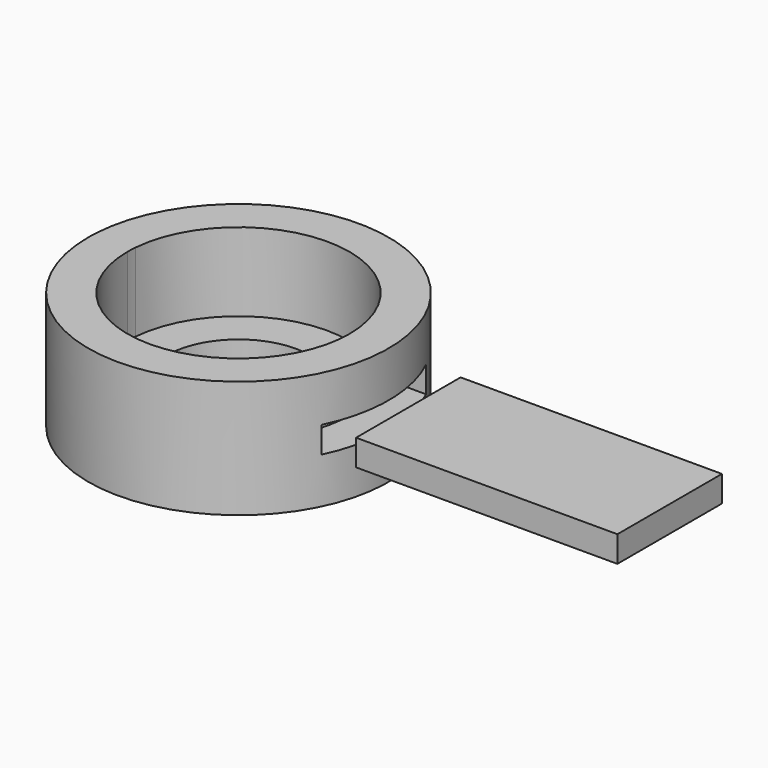
from build123d import *

# Parameters (mm, degrees)
F1_DEPTH = 3
F2_DEPTH = 9
F4_W     = 10
F4_H     = 2
F5_DEPTH = 12.20318
F6_DEPTH = 20


with BuildPart() as f1:
    # F0 (on Top) → F1 (new body)
    with BuildSketch(Plane.XY):
        with BuildLine():
            Line((-5.4486236794, 0.75), (-8.4668471109, 0.75))
            ThreePointArc((-8.4668471109, 0.75), (-8.4917077329, 0.3753661926), (-8.5, 0))
            Line((-8.5, 0), (-5.5, 0))
            ThreePointArc((-5.5, 0), (-5.4871408874, 0.3758788124), (-5.4486236794, 0.75))
        make_face()
        with BuildLine():
            ThreePointArc((-8.5, 0), (0, -8.5), (8.5, 0))
            ThreePointArc((8.5, 0), (0.3753661926, 8.4917077329), (-8.4668471109, 0.75))
            Line((-8.4668471109, 0.75), (-5.4486236794, 0.75))
            ThreePointArc((-5.4486236794, 0.75), (0.3758788124, 5.4871408874), (5.5, 0))
            ThreePointArc((5.5, 0), (0, -5.5), (-5.5, 0))
            Line((-5.5, 0), (-8.5, 0))
        make_face()
        with BuildLine():
            ThreePointArc((-8.5, 0), (-8.4917077329, 0.3753661926), (-8.4668471109, 0.75))
            Line((-8.4668471109, 0.75), (-11.4755174175, 0.75))
            ThreePointArc((-11.4755174175, 0.75), (-11.4938777247, 0.3751997458), (-11.5, 0))
            Line((-11.5, 0), (-8.5, 0))
        make_face()
        with BuildLine():
            ThreePointArc((-8.4668471109, 0.75), (0.3753661926, 8.4917077329), (8.5, 0))
            ThreePointArc((8.5, 0), (0, -8.5), (-8.5, 0))
            Line((-8.5, 0), (-11.5, 0))
            ThreePointArc((-11.5, 0), (0, -11.5), (11.5, 0))
            ThreePointArc((11.5, 0), (0.3751997458, 11.4938777247), (-11.4755174175, 0.75))
            Line((-11.4755174175, 0.75), (-8.4668471109, 0.75))
        make_face()
    extrude(amount=F1_DEPTH)

    # F0 (on Top) → F2 (join)
    with BuildSketch(Plane.XY):
        with BuildLine():
            ThreePointArc((-8.5, 0), (-8.4917077329, 0.3753661926), (-8.4668471109, 0.75))
            Line((-8.4668471109, 0.75), (-11.4755174175, 0.75))
            ThreePointArc((-11.4755174175, 0.75), (-11.4938777247, 0.3751997458), (-11.5, 0))
            Line((-11.5, 0), (-8.5, 0))
        make_face()
        with BuildLine():
            ThreePointArc((-8.4668471109, 0.75), (0.3753661926, 8.4917077329), (8.5, 0))
            ThreePointArc((8.5, 0), (0, -8.5), (-8.5, 0))
            Line((-8.5, 0), (-11.5, 0))
            ThreePointArc((-11.5, 0), (0, -11.5), (11.5, 0))
            ThreePointArc((11.5, 0), (0.3751997458, 11.4938777247), (-11.4755174175, 0.75))
            Line((-11.4755174175, 0.75), (-8.4668471109, 0.75))
        make_face()
    extrude(amount=F2_DEPTH)

    # F4 (on offset) → F5 (cut)
    with BuildSketch(Plane.YZ.offset(13)):
        with Locations((0, 4.5)):
            Rectangle(F4_W, F4_H)
    extrude(amount=-F5_DEPTH, mode=Mode.SUBTRACT)


with BuildPart() as f6:
    # F4 (on offset) → F6 (new body)
    with BuildSketch(Plane.YZ.offset(13)):
        with Locations((0, 4.5)):
            Rectangle(F4_W, F4_H)
    extrude(amount=F6_DEPTH)


solid = Compound([f1.part, f6.part])
